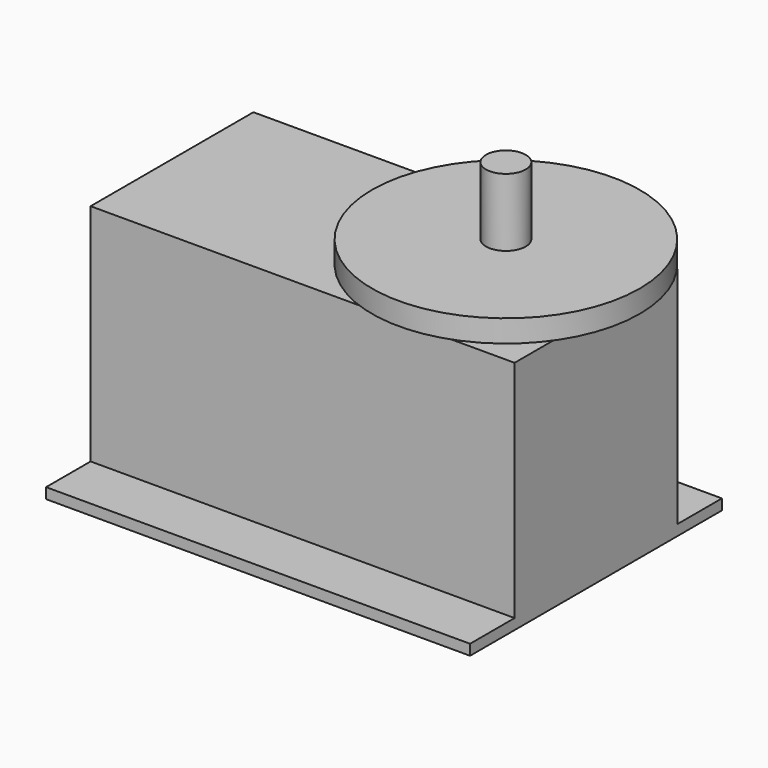
from build123d import *

# Parameters (mm, degrees)
F0_W     = 101.6
F0_H     = 48.768
F1_DEPTH = 56.388
F0_H_2   = 13.335
F2_DEPTH = 2.54
F3_R     = 4.7625
F4_DEPTH = 25.4
F3_R_2   = 32.0675
F5_DEPTH = 9.144
F6_DEPTH = 3.81


with BuildPart() as f1:
    # F0 (on Top) → F1 (new body)
    with BuildSketch(Plane.XY):
        Rectangle(F0_W, F0_H)
    extrude(amount=F1_DEPTH)

    # F0 (on Top) → F2 (join)
    with BuildSketch(Plane.XY):
        with Locations((0, 31.0515)):
            Rectangle(F0_W, F0_H_2)
        with Locations((0, -31.0515)):
            Rectangle(F0_W, F0_H_2)
    extrude(amount=F2_DEPTH)

    # F3 (on face) → F4 (join)
    with BuildSketch(Plane.XY.offset(56.388)):
        with Locations((29.21, 0)):
            Circle(F3_R)
    extrude(amount=F4_DEPTH)

    # F3 (on face) → F5 (join)
    with BuildSketch(Plane.XY.offset(56.388)):
        with Locations((29.21, 0)):
            Circle(F3_R_2)
        with Locations((29.21, 0)):
            Circle(F3_R, mode=Mode.SUBTRACT)
    extrude(amount=F5_DEPTH)

    # F3 (on face) → F6 (cut)
    with BuildSketch(Plane.XY.offset(56.388)):
        with Locations((29.21, 0)):
            Circle(F3_R_2)
        with Locations((29.21, 0)):
            Circle(F3_R, mode=Mode.SUBTRACT)
    extrude(amount=F6_DEPTH, mode=Mode.SUBTRACT)


solid = f1.part
